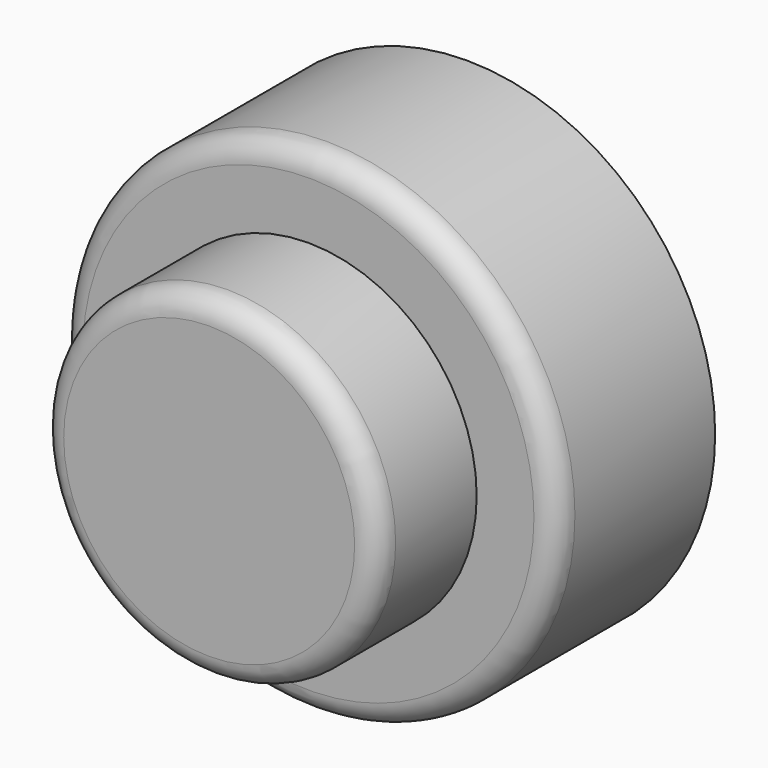
from build123d import *

# Parameters (mm, degrees)
F0_R     = 55.407722
F1_DEPTH = 44.196
F2_R     = 37.543848
F3_DEPTH = 71.882
F4_R     = 5.08


with BuildPart() as f1:
    # F0 (on Front) → F1 (new body)
    with BuildSketch(Plane.XZ):
        Circle(F0_R)
    extrude(amount=F1_DEPTH)

    # F2 (on Front) → F3 (join)
    with BuildSketch(Plane.XZ):
        Circle(F2_R)
    extrude(amount=F3_DEPTH)

    # F4
    f4_edges = [f1.edges().sort_by_distance(p)[0] for p in [
        (-37.543848, -71.882, 0),
        (-55.407722, -44.196, 0),
    ]]
    fillet(f4_edges, radius=F4_R)


solid = f1.part
